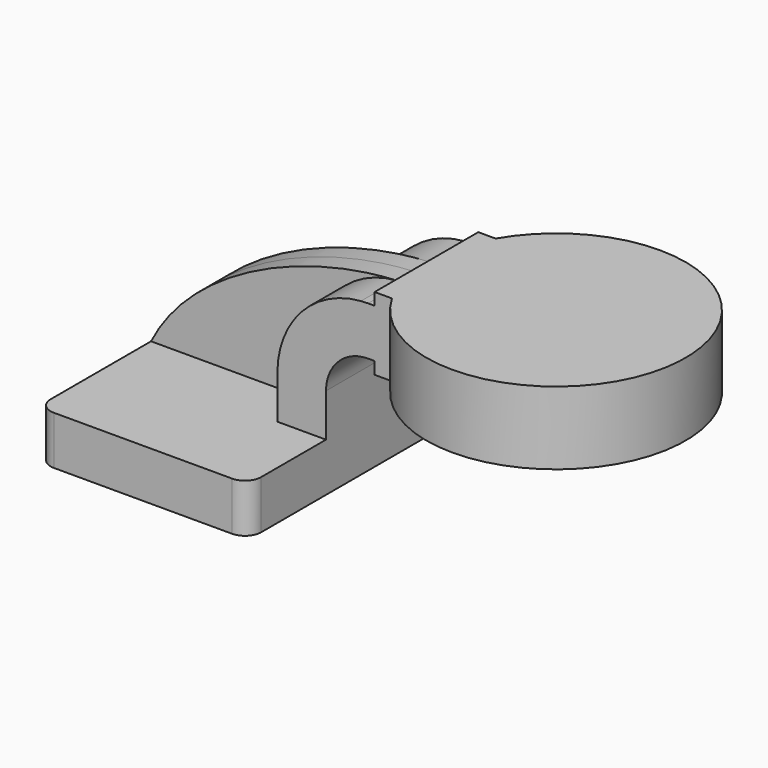
from build123d import *

# Parameters (mm, degrees)
F1_DEPTH = 63.5
F2_DEPTH = 25.4
F3_DEPTH = 7.9375
F5_R     = 6.35


with BuildPart() as f1:
    # F0 (on Front) → F1 (new body, symmetric)
    with BuildSketch(Plane.XZ):
        Polygon((22.225, 9.525), (-41.275, 9.525), (-41.275, -9.525), (41.275, -9.525), (41.275, 9.525), align=None)
    extrude(amount=F1_DEPTH, both=True)

    # F0 (on Front) → F2 (join, symmetric)
    with BuildSketch(Plane.XZ):
        with BuildLine():
            Line((22.225, 26.3652), (22.225, 9.525))
            Line((22.225, 9.525), (41.275, 9.525))
            Line((41.275, 9.525), (41.275, 26.3652))
            ThreePointArc((41.275, 26.3652), (46.110667, 38.039533), (57.785, 42.8752))
            Line((57.785, 42.8752), (60.325, 42.8752))
            Line((60.325, 42.8752), (60.325, 61.9252))
            Line((60.325, 61.9252), (57.785, 61.9252))
            add(Edge.make_bspline(
                [(54.999193, 61.815911), (55.93158, 61.863075), (56.860354, 61.899531), (57.785, 61.9252)],
                knots=[109.33874, 109.33874, 109.33874, 109.33874, 112.065448, 112.065448, 112.065448, 112.065448], degree=3))
            ThreePointArc((54.999193, 61.815911), (31.673921, 50.504901), (22.225, 26.3652))
        make_face()
        Polygon((60.325, 66.675), (60.325, 61.9252), (60.325, 42.8752), (60.325, 38.1), (111.125, 38.1), (111.125, 66.675), align=None)
    extrude(amount=F2_DEPTH, both=True)

    # F0 (on Front) → F3 (join, symmetric)
    with BuildSketch(Plane.XZ):
        with BuildLine():
            add(Edge.make_bspline(
                [(-41.275, 9.525), (-25.584794, 40.814355), (17.611256, 59.924649), (54.999193, 61.815911)],
                knots=[0, 0, 0, 0, 109.33874, 109.33874, 109.33874, 109.33874], degree=3))
            Line((-41.275, 9.525), (22.225, 9.525))
            Line((22.225, 9.525), (22.225, 26.3652))
            ThreePointArc((22.225, 26.3652), (31.673921, 50.504901), (54.999193, 61.815911))
        make_face()
    extrude(amount=F3_DEPTH, both=True)

    # F0 (on Front) → F4 (revolve)
    with BuildSketch(Plane.XZ):
        Polygon((60.325, 66.675), (60.325, 61.9252), (60.325, 42.8752), (60.325, 38.1), (111.125, 38.1), (111.125, 66.675), align=None)
    revolve(axis=Axis((111.125, 0, 52.3875), (0, 0, -1)))

    # F5
    f5_edges = [f1.edges().sort_by_distance(p)[0] for p in [
        (41.275, 63.5, 0),
        (-41.275, 63.5, 0),
        (41.275, -63.5, 0),
        (-41.275, -63.5, 0),
    ]]
    fillet(f5_edges, radius=F5_R)


solid = f1.part
